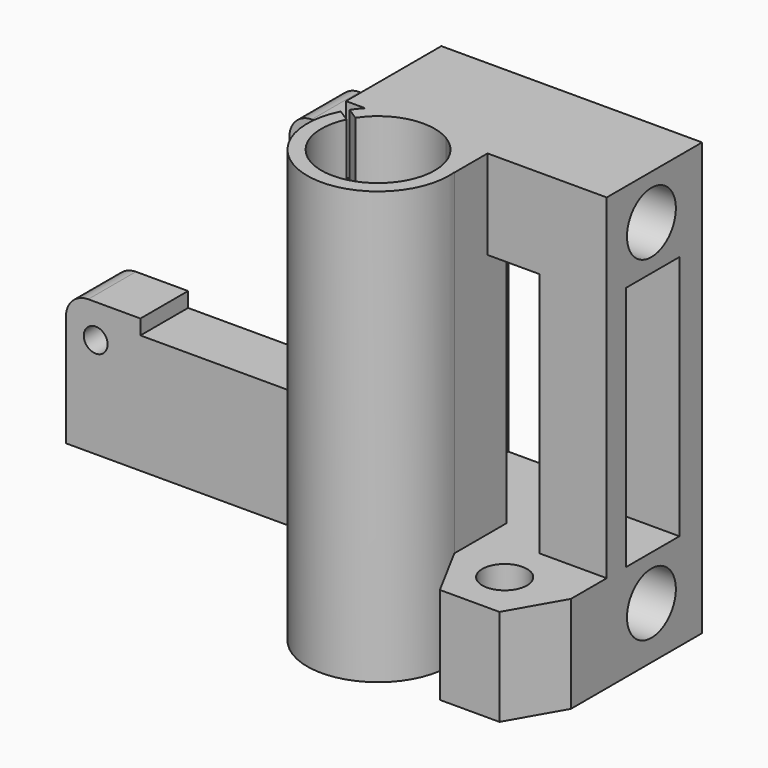
from build123d import *

# Parameters (mm, degrees)
PAD_DEPTH       = 58
SKETCH001_R     = 9.5
SKETCH001_R_2   = 7.6
PAD001_DEPTH    = 58
SKETCH002_R     = 7.6
SKETCH002_R_2   = 3
POCKET_DEPTH    = 58
SKETCH003_R     = 4.1
SKETCH003_W     = 9
SKETCH003_H     = 33
POCKET001_DEPTH = 55
SKETCH004_W     = 16
SKETCH004_H     = 13
POCKET002_DEPTH = 45
PAD002_DEPTH    = 58
SKETCH006_R     = 1.6
POCKET003_DEPTH = 17
SKETCH007_W     = 18
SKETCH007_H     = 58
POCKET004_DEPTH = 25
SKETCH008_W     = 17
SKETCH008_H     = 33
POCKET005_DEPTH = 5
SKETCH009_W     = 7
SKETCH009_H     = 33
POCKET006_DEPTH = 5
SKETCH010_W     = 8
SKETCH010_H     = 49
POCKET007_DEPTH = 45
SKETCH011_W     = 4
SKETCH011_H     = 17
POCKET008_DEPTH = 20
POCKET009_DEPTH = 58
FILLET_R        = 3
FILLET001_R     = 3


with BuildPart() as part:
    # Sketch → Pad (new body)
    with BuildSketch(Plane(origin=(-133, 0, 90), x_dir=(1, 0, 0), z_dir=(0, 0, 1))):
        Polygon((-47.676132, 21.976631), (5.323868, 21.976631), (5.323868, 5.976631), (-12.676132, 5.976631), (-12.676132, -0.023369), (-16.676132, -7.023369), (-24.676132, -7.023369), (-31.676132, 5.976631), (-47.676132, 5.976631), align=None)
    extrude(amount=PAD_DEPTH)

    # Sketch001 → Pad001 (new body)
    with BuildSketch(Plane(origin=(-133, 0, 148), x_dir=(1, 0, 0), z_dir=(0, 0, 1))):
        with Locations((-38.176132, -0.523369)):
            Circle(SKETCH001_R)
        with Locations((-38.176132, -0.523369)):
            Circle(SKETCH001_R_2, mode=Mode.SUBTRACT)
    extrude(amount=-PAD001_DEPTH)

    # Sketch002 → Pocket (cut)
    with BuildSketch(Plane(origin=(-133, 0, 148), x_dir=(1, 0, 0), z_dir=(0, 0, 1))):
        with Locations((-38.176132, -0.523369)):
            Circle(SKETCH002_R)
        with Locations((-21.176132, -0.523369)):
            Circle(SKETCH002_R_2)
    extrude(amount=-POCKET_DEPTH, mode=Mode.SUBTRACT)

    # Sketch003 → Pocket001 (cut)
    with BuildSketch(Plane(origin=(-180.676132, 0, 90), x_dir=(0, -1, 0), z_dir=(-1, 0, 0))):
        with Locations((-13.476631, 52)):
            Circle(SKETCH003_R)
        with Locations((-13.476631, 7)):
            Circle(SKETCH003_R)
        with Locations((-13.676631, 29.5)):
            Rectangle(SKETCH003_W, SKETCH003_H)
    extrude(amount=-POCKET001_DEPTH, mode=Mode.SUBTRACT)

    # Sketch004 → Pocket002 (cut)
    with BuildSketch(Plane(origin=(-133, 0, 148), x_dir=(1, 0, 0), z_dir=(0, 0, 1))):
        with Locations((-20.676132, -0.523369)):
            Rectangle(SKETCH004_W, SKETCH004_H)
    extrude(amount=-POCKET002_DEPTH, mode=Mode.SUBTRACT)

    # Sketch005 → Pad002 (new body)
    with BuildSketch(Plane(origin=(-133, 0, 148), x_dir=(1, 0, 0), z_dir=(0, 0, 1))):
        Polygon((-47.676132, 21.976631), (-91.676132, 21.976631), (-91.676132, 11.976631), (-81.676132, 11.976631), (-47.676132, 5.976631), align=None)
    extrude(amount=-PAD002_DEPTH)

    # Sketch006 → Pocket003 (cut)
    with BuildSketch(Plane(origin=(-133, 21.976631, 90), x_dir=(-1, 0, 0), z_dir=(0, 1, 0))):
        with Locations((56.676132, 44.5)):
            Circle(SKETCH006_R)
        with Locations((56.676132, 13.5)):
            Circle(SKETCH006_R)
        with Locations((87.676132, 13.5)):
            Circle(SKETCH006_R)
        Polygon((91.676132, 18), (81.676132, 18), (81.676132, 16), (59.676132, 16), (59.676132, 39), (61.676132, 39), (61.676132, 49), (47.676132, 49), (47.676132, 58), (91.676132, 58), align=None)
    extrude(amount=-POCKET003_DEPTH, mode=Mode.SUBTRACT)

    # Sketch007 → Pocket004 (cut)
    with BuildSketch(Plane(origin=(-133, 5.976631, 90), x_dir=(1, 0, 0), z_dir=(0, -1, 0))):
        with Locations((-3.676132, 29)):
            Rectangle(SKETCH007_W, SKETCH007_H)
    extrude(amount=-POCKET004_DEPTH, mode=Mode.SUBTRACT)

    # Sketch008 → Pocket005 (cut)
    with BuildSketch(Plane(origin=(-133, 21.976631, 90), x_dir=(-1, 0, 0), z_dir=(0, 1, 0))):
        with Locations((30.176132, 29.5)):
            Rectangle(SKETCH008_W, SKETCH008_H)
    extrude(amount=-POCKET005_DEPTH, mode=Mode.SUBTRACT)

    # Sketch009 → Pocket006 (cut)
    with BuildSketch(Plane(origin=(-133, 5.976631, 90), x_dir=(1, 0, 0), z_dir=(0, -1, 0))):
        with Locations((-25.176132, 29.5)):
            Rectangle(SKETCH009_W, SKETCH009_H)
    extrude(amount=-POCKET006_DEPTH, mode=Mode.SUBTRACT)

    # Sketch010 → Pocket007 (cut)
    with BuildSketch(Plane(origin=(-224.676132, 0, 90), x_dir=(0, -1, 0), z_dir=(-1, 0, 0))):
        with Locations((-9.976631, 24.5)):
            Rectangle(SKETCH010_W, SKETCH010_H)
    extrude(amount=-POCKET007_DEPTH, mode=Mode.SUBTRACT)

    # Sketch011 → Pocket008 (cut)
    with BuildSketch(Plane(origin=(-192.676132, 0, 90), x_dir=(0, -1, 0), z_dir=(-1, 0, 0))):
        with Locations((-15.976631, 27.5)):
            Rectangle(SKETCH011_W, SKETCH011_H)
    extrude(amount=-POCKET008_DEPTH, mode=Mode.SUBTRACT)

    # Sketch012 → Pocket009 (cut)
    with BuildSketch(Plane(origin=(-133, 0, 148), x_dir=(1, 0, 0), z_dir=(0, 0, 1))):
        Polygon((-38.722618, -1.360837), (-49.563332, 5.713227), (-49.016846, 6.550695), (-38.176132, -0.523369), align=None)
    extrude(amount=-POCKET009_DEPTH, mode=Mode.SUBTRACT)

    # Fillet
    fillet_edges = [part.edges().sort_by_distance(p)[0] for p in [
        (-224.676132, 17.976631, 108),
    ]]
    fillet(fillet_edges, radius=FILLET_R)

    # Fillet001
    fillet001_edges = [part.edges().sort_by_distance(p)[0] for p in [
        (-194.676132, 17.976631, 139),
    ]]
    fillet(fillet001_edges, radius=FILLET001_R)


solid = part.part
